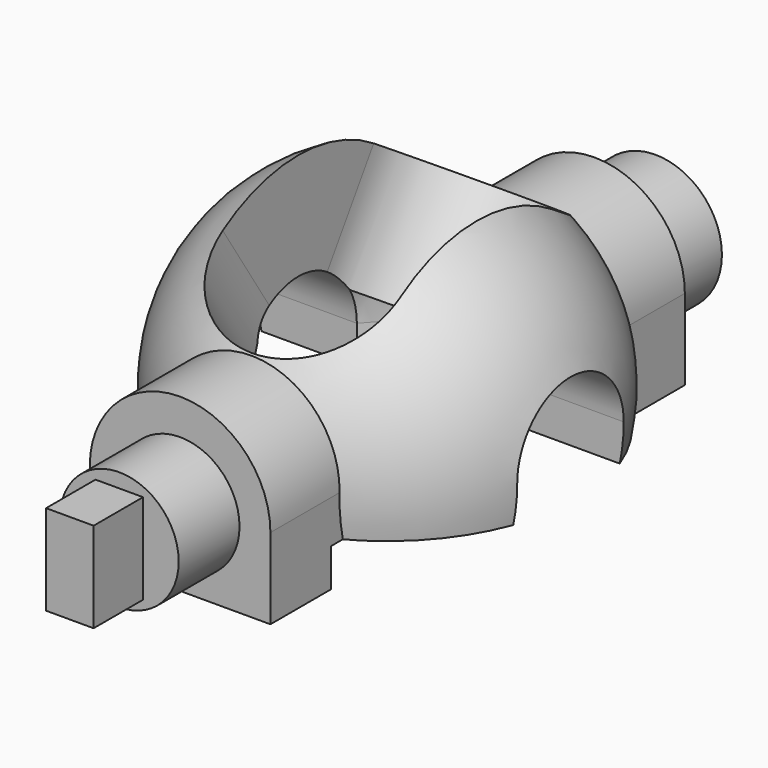
from build123d import *

# Parameters (mm, degrees)
SKETCH031_R          = 1.4
PAD016_DEPTH         = 7.05
SKETCH032_R          = 1.25
PAD017_DEPTH         = 7.05
PAD018_DEPTH         = 5.45
SKETCH035_W          = 1
SKETCH035_H          = 1.9
PAD019_DEPTH         = 8.35
SKETCH033_W          = 7.7
SKETCH033_H          = 4
POCKET011_DEPTH      = 4.101
POCKET011_DEPTH_BACK = 4.101
POCKET012_DEPTH      = 4.101
POCKET012_DEPTH_BACK = 4.101
SKETCH038_R          = 2.25
POCKET013_DEPTH      = 1.601
GROOVE001_ANGLE      = -180
SKETCH039_R          = 1.875
POCKET014_DEPTH      = 44.266756
SKETCH040_W          = 3.75
SKETCH040_H          = 7
GROOVE002_ANGLE      = -66
SKETCH041_W          = 1.9
SKETCH041_H          = 3.3
POCKET015_DEPTH      = 1.601
POCKET015_DEPTH_BACK = 3.647145


with BuildPart() as part:
    # Sketch030 → Revolution002 (revolve)
    with BuildSketch(Plane.XY):
        with BuildLine():
            ThreePointArc((0, -4.1), (4.1, 0), (0, 4.1))
            Line((0, 4.1), (0, -4.1))
        make_face()
    revolve(axis=Axis((0, 0, 0), (0, 1, 0)))

    # Sketch031 → Pad016 (new body)
    with BuildSketch(Plane.XZ):
        Circle(SKETCH031_R)
    extrude(amount=-PAD016_DEPTH)

    # Sketch032 → Pad017 (join)
    with BuildSketch(Plane.XZ):
        Circle(SKETCH032_R)
    extrude(amount=PAD017_DEPTH)

    # Sketch034 → Pad018 (join, symmetric)
    with BuildSketch(Plane.XZ):
        with BuildLine():
            Line((-1.9, -1.6), (1.9, -1.6))
            Line((1.9, -1.6), (1.9, 0.1))
            ThreePointArc((1.9, 0.1), (0, 2), (-1.9, 0.1))
            Line((-1.9, 0.1), (-1.9, -1.6))
        make_face()
    extrude(amount=PAD018_DEPTH, both=True)

    # Sketch035 → Pad019 (join)
    with BuildSketch(Plane.XZ):
        Rectangle(SKETCH035_W, SKETCH035_H)
    extrude(amount=PAD019_DEPTH)

    # Sketch033 → Pocket011 (cut, two sides)
    with BuildSketch(Plane.YZ) as pocket011_sk:
        with Locations((0, -2.8)):
            Rectangle(SKETCH033_W, SKETCH033_H)
    extrude(amount=-POCKET011_DEPTH, mode=Mode.SUBTRACT)
    extrude(pocket011_sk.sketch, amount=POCKET011_DEPTH_BACK, mode=Mode.SUBTRACT)

    # Sketch036 → Pocket012 (cut, two sides)
    with BuildSketch(Plane.YZ) as pocket012_sk:
        with BuildLine():
            ThreePointArc((1.4, 0), (0, 1.4), (-1.4, 0))
            Line((-1.4, 0), (-1.4, -3))
            Line((-1.4, -3), (1.4, -3))
            Line((1.4, -3), (1.4, 0))
        make_face()
    extrude(amount=-POCKET012_DEPTH, mode=Mode.SUBTRACT)
    extrude(pocket012_sk.sketch, amount=POCKET012_DEPTH_BACK, mode=Mode.SUBTRACT)

    # Sketch038 → Pocket013 (cut, through all)
    with BuildSketch(Plane.XY):
        Circle(SKETCH038_R)
    extrude(amount=-POCKET013_DEPTH, mode=Mode.SUBTRACT)

    # Sketch037 → Groove001 (revolve, cut)
    with BuildSketch(Plane.XY):
        with BuildLine():
            ThreePointArc((0, -2.25), (2.25, 0), (0, 2.25))
            Line((0, 2.25), (0, -2.25))
        make_face()
    revolve(axis=Axis((0, 0, 0), (0, 1, 0)), revolution_arc=GROOVE001_ANGLE, mode=Mode.SUBTRACT)

    # Sketch039 → Pocket014 (cut, through all)
    with BuildSketch(Plane(origin=(0, 0, 0), x_dir=(1, 0, 0), z_dir=(0, -0.544639, 0.838671))):
        Circle(SKETCH039_R)
    pocket014 = extrude(amount=POCKET014_DEPTH, mode=Mode.SUBTRACT)

    # Mirrored001: Pocket014 across XZ
    add(pocket014.mirror(Plane.XZ), mode=Mode.SUBTRACT)

    # Sketch040 → Groove002 (revolve, cut)
    with BuildSketch(Plane(origin=(0, 0, 0), x_dir=(1, 0, 0), z_dir=(0, -0.838671, -0.544639))):
        with Locations((0, 3.5)):
            Rectangle(SKETCH040_W, SKETCH040_H)
    revolve(axis=Axis((0, 0, 0), (1, 0, 0)), revolution_arc=GROOVE002_ANGLE, mode=Mode.SUBTRACT)

    # Sketch041 → Pocket015 (cut, two sides)
    with BuildSketch(Plane.XY) as pocket015_sk:
        with Locations((0, -1.65)):
            Rectangle(SKETCH041_W, SKETCH041_H)
    extrude(amount=-POCKET015_DEPTH, mode=Mode.SUBTRACT)
    extrude(pocket015_sk.sketch, amount=POCKET015_DEPTH_BACK, mode=Mode.SUBTRACT)


solid = part.part
